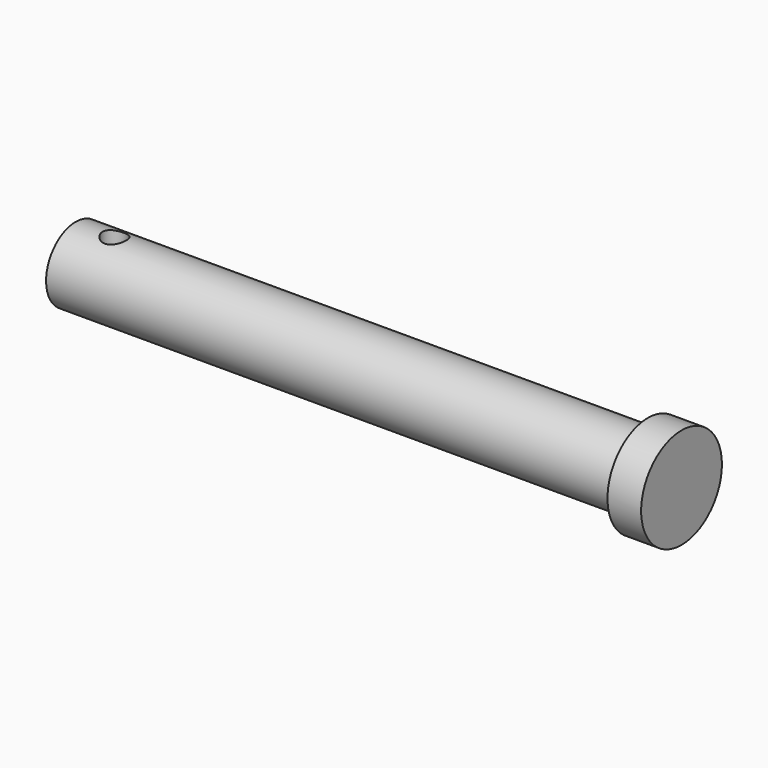
from build123d import *

# Parameters (mm, degrees)
F0_W     = 90
F0_H     = 5.5
F2_R     = 1.75
F3_DEPTH = 15
F4_R     = 7.5
F4_R_2   = 5.5
F5_DEPTH = 5


with BuildPart() as f1:
    # F0 (on Front) → F1 (revolve)
    with BuildSketch(Plane.XZ):
        with Locations((0, 2.75)):
            Rectangle(F0_W, F0_H)
    revolve(axis=Axis((0, 0, 0), (1, 0, 0)))

    # F2 (on Top) → F3 (cut, symmetric)
    with BuildSketch(Plane.XY):
        with Locations((-39.25, 0)):
            Circle(F2_R)
    extrude(amount=F3_DEPTH, both=True, mode=Mode.SUBTRACT)

    # F4 (on face) → F5 (join)
    with BuildSketch(Plane.YZ.offset(45)):
        Circle(F4_R)
        Circle(F4_R_2, mode=Mode.SUBTRACT)
    extrude(amount=-F5_DEPTH)


solid = f1.part
